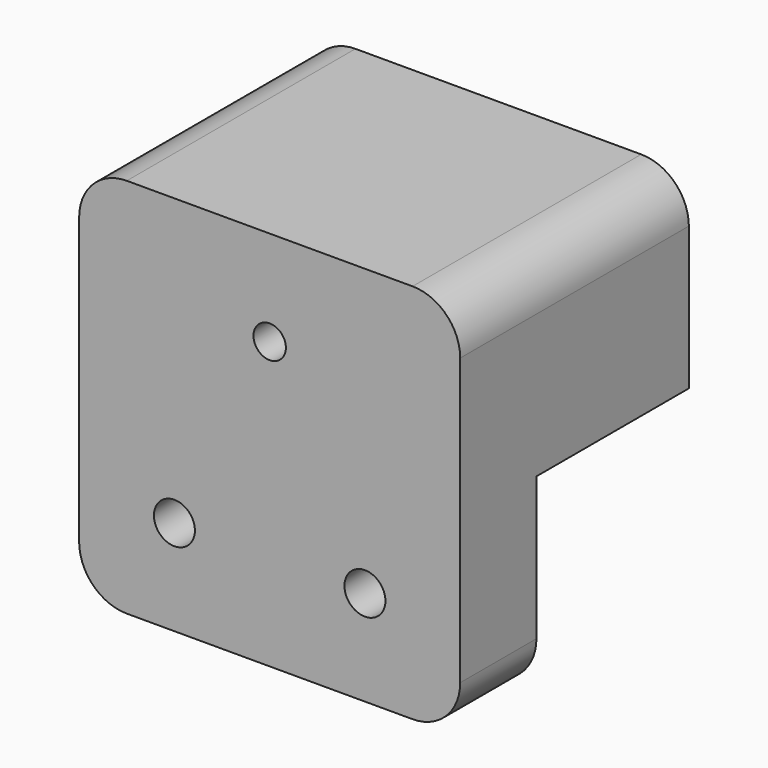
from build123d import *

# Parameters (mm, degrees)
F0_W     = 40
F0_H     = 20
F0_H_2   = 10
F1_DEPTH = 40
F2_DEPTH = 20
F3_R     = 2.15
F3_R_2   = 1.7
F4_DEPTH = 40
F5_W     = 12.5
F5_H     = 12.5
F5_R     = 1.7
F6_DEPTH = 25
F7_R     = 5


with BuildPart() as f1:
    # F0 (on Top) → F1 (new body)
    with BuildSketch(Plane.XY):
        with Locations((0, 5)):
            Rectangle(F0_W, F0_H)
        with Locations((0, -10)):
            Rectangle(F0_W, F0_H_2)
    extrude(amount=F1_DEPTH)

    # F0 (on Top) → F2 (cut)
    with BuildSketch(Plane.XY):
        with Locations((0, 5)):
            Rectangle(F0_W, F0_H)
    extrude(amount=F2_DEPTH, mode=Mode.SUBTRACT)

    # F3 (on face) → F4 (cut)
    with BuildSketch(Plane.XZ.offset(15)):
        with Locations((-10, 10)):
            Circle(F3_R)
        with Locations((10, 10)):
            Circle(F3_R)
        with Locations((0, 30)):
            Circle(F3_R_2)
    extrude(amount=-F4_DEPTH, mode=Mode.SUBTRACT)

    # F5 (on face) → F6 (cut)
    with BuildSketch(Plane(origin=(0, 15, 0), x_dir=(-1, 0, 0), z_dir=(0, 1, 0))):
        with Locations((0, 30)):
            Rectangle(F5_W, F5_H)
        with Locations((0, 30)):
            Circle(F5_R, mode=Mode.SUBTRACT)
    extrude(amount=-F6_DEPTH, mode=Mode.SUBTRACT)

    # F7
    f7_edges = [f1.edges().sort_by_distance(p)[0] for p in [
        (-20, -10, 0),
        (20, -10, 0),
        (-20, 0, 40),
        (20, 0, 40),
    ]]
    fillet(f7_edges, radius=F7_R)


solid = f1.part
